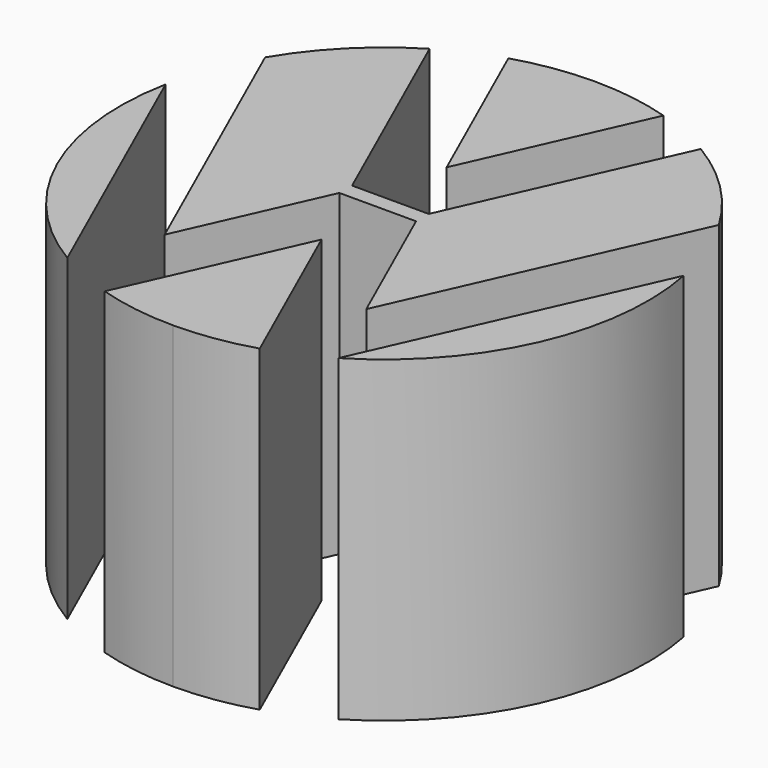
from build123d import *

# Parameters (mm, degrees)
F1_DEPTH = 12.7


with BuildPart() as f1:
    # F0 (on Top) → F1 (new body)
    with BuildSketch(Plane.XY):
        with BuildLine():
            Line((0, -0.3175), (0, 0.3175))
            Line((0, 0.3175), (-1.531548, 0.3175))
            Line((-1.531548, 0.3175), (-5.416382, 9.04298))
            ThreePointArc((-5.416382, 9.04298), (-7.465753, 7.441453), (-9.06059, 5.386872))
            Line((-9.06059, 5.386872), (-4.026194, -5.920566))
            Line((-4.026194, -5.920566), (-1.531548, -0.3175))
            Line((-1.531548, -0.3175), (0, -0.3175))
        make_face()
        with BuildLine():
            Line((0, 3.122414), (0, 10.541))
            ThreePointArc((0, 10.541), (-1.565344, 10.424125), (-3.095977, 10.076091))
            Line((-3.095977, 10.076091), (0, 3.122414))
        make_face()
        with BuildLine():
            Line((1.531548, 0.3175), (0, 0.3175))
            Line((0, 0.3175), (0, -0.3175))
            Line((0, -0.3175), (1.531548, -0.3175))
            Line((1.531548, -0.3175), (4.026194, -5.920566))
            Line((4.026194, -5.920566), (9.06059, 5.386872))
            ThreePointArc((9.06059, 5.386872), (7.465753, 7.441453), (5.416382, 9.04298))
            Line((5.416382, 9.04298), (1.531548, 0.3175))
        make_face()
        with BuildLine():
            Line((10.344511, 2.025778), (5.416382, -9.04298))
            ThreePointArc((5.416382, -9.04298), (9.629683, -4.287411), (10.344511, 2.025778))
        make_face()
        with BuildLine():
            Line((0, -3.122414), (0, -10.541))
            ThreePointArc((0, -10.541), (1.565344, -10.424125), (3.095977, -10.076091))
            Line((3.095977, -10.076091), (0, -3.122414))
        make_face()
        with BuildLine():
            ThreePointArc((-3.095977, -10.076091), (-1.565344, -10.424125), (0, -10.541))
            Line((0, -10.541), (0, -3.122414))
            Line((0, -3.122414), (-3.095977, -10.076091))
        make_face()
        with BuildLine():
            ThreePointArc((-10.344511, 2.025778), (-9.629683, -4.287411), (-5.416382, -9.04298))
            Line((-5.416382, -9.04298), (-10.344511, 2.025778))
        make_face()
        with BuildLine():
            ThreePointArc((3.095977, 10.076091), (1.565344, 10.424125), (0, 10.541))
            Line((0, 10.541), (0, 3.122414))
            Line((0, 3.122414), (3.095977, 10.076091))
        make_face()
    extrude(amount=F1_DEPTH)


solid = f1.part
